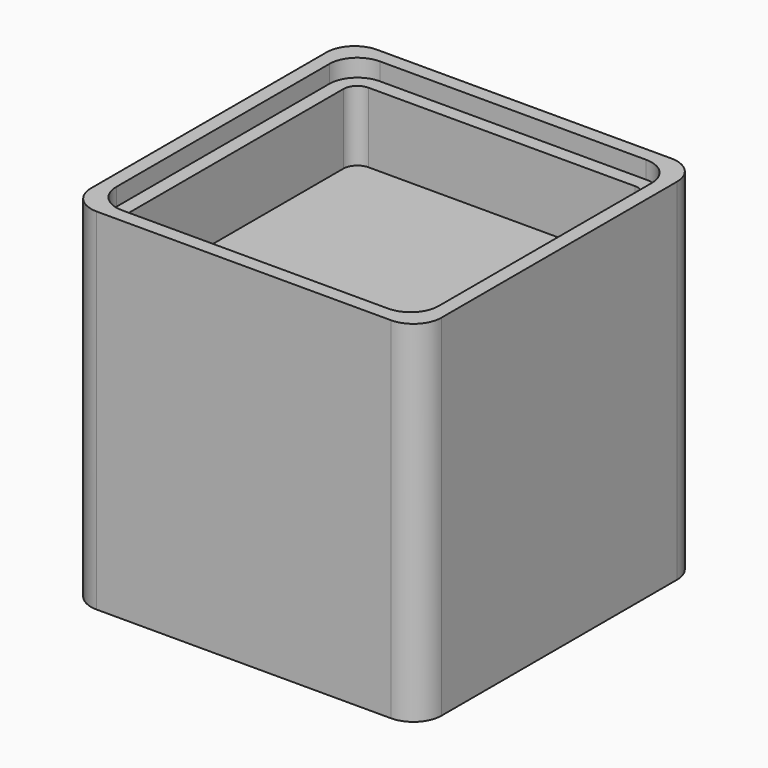
from build123d import *

# Parameters (mm, degrees)
F1_DEPTH = 100
F3_DEPTH = 5
F5_DEPTH = 20


with BuildPart() as f1:
    # F0 (on Top) → F1 (new body)
    with BuildSketch(Plane.XY):
        with BuildLine():
            Line((42, 50), (-42, 50))
            ThreePointArc((-42, 50), (-47.656854, 47.656854), (-50, 42))
            Line((-50, 42), (-50, -42))
            ThreePointArc((-50, -42), (-47.656854, -47.656854), (-42, -50))
            Line((-42, -50), (42, -50))
            ThreePointArc((42, -50), (47.656854, -47.656854), (50, -42))
            Line((50, -42), (50, 42))
            ThreePointArc((50, 42), (47.656854, 47.656854), (42, 50))
        make_face()
    extrude(amount=F1_DEPTH)

    # F2 (on face) → F3 (cut)
    with BuildSketch(Plane.XY.offset(100)):
        with BuildLine():
            Line((46, -38), (46, 38))
            ThreePointArc((46, 38), (43.656854, 43.656854), (38, 46))
            Line((38, 46), (-38, 46))
            ThreePointArc((-38, 46), (-43.656854, 43.656854), (-46, 38))
            Line((-46, 38), (-46, -38))
            ThreePointArc((-46, -38), (-43.656854, -43.656854), (-38, -46))
            Line((-38, -46), (38, -46))
            ThreePointArc((38, -46), (43.656854, -43.656854), (46, -38))
        make_face()
    extrude(amount=-F3_DEPTH, mode=Mode.SUBTRACT)

    # F4 (on face) → F5 (cut)
    with BuildSketch(Plane.XY.offset(95)):
        with BuildLine():
            Line((38, 42), (-38, 42))
            ThreePointArc((-38, 42), (-40.828427, 40.828427), (-42, 38))
            Line((-42, 38), (-42, -38))
            ThreePointArc((-42, -38), (-40.828427, -40.828427), (-38, -42))
            Line((-38, -42), (38, -42))
            ThreePointArc((38, -42), (40.828427, -40.828427), (42, -38))
            Line((42, -38), (42, 38))
            ThreePointArc((42, 38), (40.828427, 40.828427), (38, 42))
        make_face()
    extrude(amount=-F5_DEPTH, mode=Mode.SUBTRACT)


solid = f1.part
